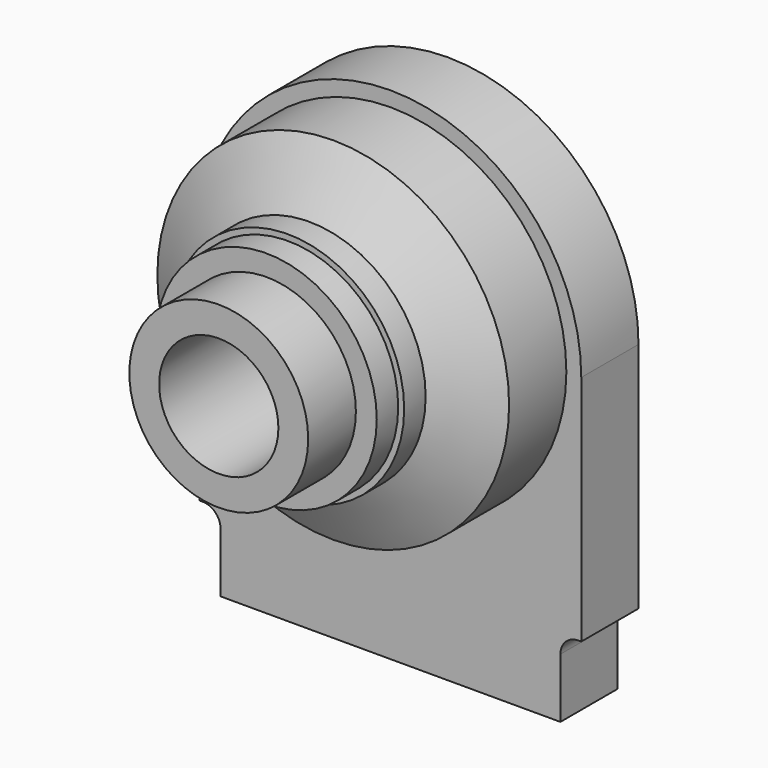
from build123d import *

# Parameters (mm, degrees)
F1_DEPTH  = 12
F2_R      = 29.5
F3_DEPTH  = 12
F3_FACE_R = 29.5
F5_R      = 19.5
F7_DEPTH  = 4.5
F8_R      = 18.5
F9_DEPTH  = 4.5
F10_R     = 15
F11_DEPTH = 10
F12_R     = 10
F13_DEPTH = 48.001


with BuildPart() as f1:
    # F0 (on Front) → F1 (new body)
    with BuildSketch(Plane.XZ):
        with BuildLine():
            Line((-32, 0), (32, 0))
            ThreePointArc((32, 0), (0, 32), (-32, 0))
        make_face()
        with BuildLine():
            Line((32, -39), (32, 0))
            Line((32, 0), (-32, 0))
            Line((-32, 0), (-32, -39))
            Line((-32, -39), (-31.5, -39))
            ThreePointArc((-31.5, -39), (-29.3786796564, -39.8786796564), (-28.5, -42))
            Line((-28.5, -42), (-28.5, -52))
            Line((-28.5, -52), (28.5, -52))
            Line((28.5, -52), (28.5, -42))
            ThreePointArc((28.5, -42), (29.3786796564, -39.8786796564), (31.5, -39))
            Line((31.5, -39), (32, -39))
        make_face()
    extrude(amount=F1_DEPTH)

    # F2 (on face) → F3 (join)
    with BuildSketch(Plane.XZ.offset(12)):
        Circle(F2_R)
    extrude(amount=F3_DEPTH)

    # F3_face (on face) → F6 section 0
    with BuildSketch(Plane.XZ.offset(24)):
        Circle(F3_FACE_R)
    # F5 (on offset) → F6 section 1
    with BuildSketch(Plane.XZ.offset(29)):
        Circle(F5_R)
    loft()

    # F7 (add): a face of the model
    f7_faces = [f1.faces().sort_by_distance(p)[0] for p in [
        (0, -29, 0),
    ]]
    extrude(f7_faces, amount=F7_DEPTH)

    # F8 (on face) → F9 (join)
    with BuildSketch(Plane.XZ.offset(33.5)):
        Circle(F8_R)
    extrude(amount=F9_DEPTH)

    # F10 (on face) → F11 (join)
    with BuildSketch(Plane.XZ.offset(38)):
        Circle(F10_R)
    extrude(amount=F11_DEPTH)

    # F12 (on face) → F13 (cut, through all)
    with BuildSketch(Plane.XZ.offset(48)):
        Circle(F12_R)
    extrude(amount=-F13_DEPTH, mode=Mode.SUBTRACT)


solid = f1.part
